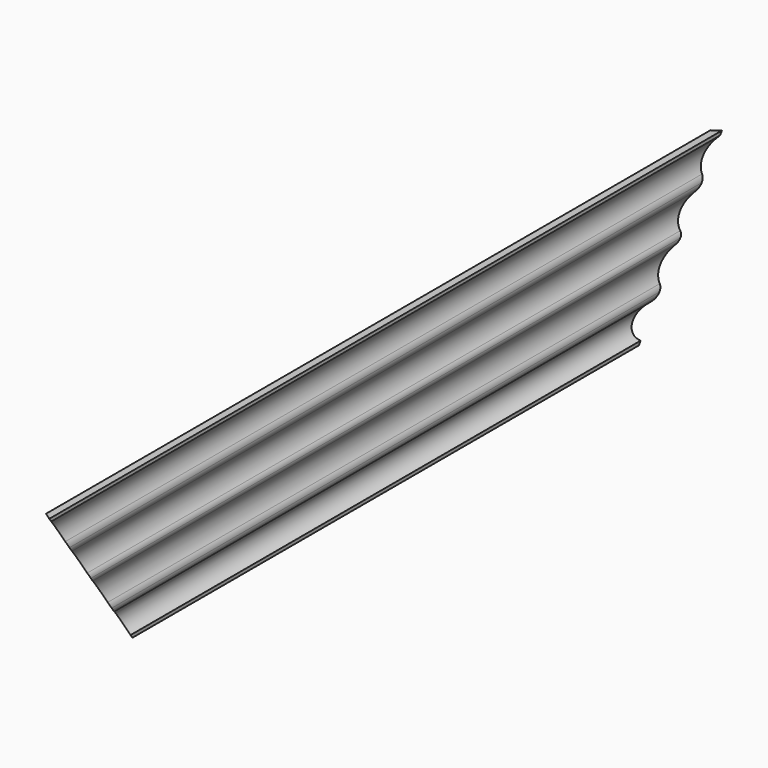
from build123d import *

# Parameters (mm, degrees)
F0_W     = 25.4
F0_H     = 127
F1_DEPTH = 381
F2_SIZE  = 19.05
F4_DEPTH = 762.001
F6_DEPTH = 94.2936892712


with BuildPart() as f1:
    # F0 (on Front) → F1 (new body, symmetric)
    with BuildSketch(Plane.XZ):
        Rectangle(F0_W, F0_H)
    extrude(amount=F1_DEPTH, both=True)

    # F2
    f2_edges = [f1.edges().sort_by_distance(p)[0] for p in [
        (-12.7, 0, 63.5),
        (-12.7, 0, -63.5),
    ]]
    chamfer(f2_edges, length=F2_SIZE)

    # F3 (on face) → F4 (cut, through all)
    with BuildSketch(Plane.XZ.offset(381)):
        with BuildLine():
            ThreePointArc((11.0607444282, 37.7743444236), (12.2799882072, 35.3703719511), (12.7, 32.7078113162))
            Line((12.7, 32.7078113162), (12.7, 60.5742454254))
            ThreePointArc((12.7, 60.5742454254), (7.734521827, 49.4723711463), (11.0607444282, 37.7743444236))
        make_face()
        with BuildLine():
            ThreePointArc((12.7, 32.7078113162), (12.2050831664, 29.8239852054), (10.7769712009, 27.270185698))
            ThreePointArc((10.7769712009, 27.270185698), (6.7846666798, 15.7099875002), (11.1173224388, 4.2729961198))
            ThreePointArc((11.1173224388, 4.2729961198), (12.2916182124, 2.2783417271), (12.7, 0))
            Line((12.7, 0), (12.7, 32.7078113162))
        make_face()
        with BuildLine():
            Line((12.7, -31.8533331156), (12.7, 0))
            ThreePointArc((12.7, 0), (12.3437587955, -2.132292065), (11.3137291276, -4.0329803954))
            ThreePointArc((11.3137291276, -4.0329803954), (7.3105875393, -15.5042613468), (11.0984736295, -27.0484091373))
            ThreePointArc((11.0984736295, -27.0484091373), (12.2890761787, -29.3209339985), (12.7, -31.8533331156))
        make_face()
        with BuildLine():
            Line((12.7, -60.6248162719), (12.7, -31.8533331156))
            ThreePointArc((12.7, -31.8533331156), (11.8279315788, -35.4875740202), (9.4016464054, -38.3303456503))
            ThreePointArc((9.4016464054, -38.3303456503), (4.3012002964, -50.4761533584), (12.7, -60.6248162719))
        make_face()
    extrude(amount=-F4_DEPTH, mode=Mode.SUBTRACT)

    # F5 (on face) → F6 (cut, through all)
    with BuildSketch(Plane(origin=(-28.575, 0, 28.575), x_dir=(0, -1, 0), z_dir=(-0.7071067812, 0, 0.7071067812))):
        Polygon((381, 22.4506403027), (314.1107035763, 22.4506403027), (238.774623845, -52.8854394286), (381, -52.8854394286), align=None)
        Polygon((381, 49.3914086659), (341.0514719395, 49.3914086659), (314.1107035763, 22.4506403027), (381, 22.4506403027), align=None)
        Polygon((381, 53.8815367264), (345.5416, 53.8815367264), (341.0514719395, 49.3914086659), (381, 49.3914086659), align=None)
        Polygon((-349.5691035763, 22.4506403027), (-381, 22.4506403027), (-381, -78.4676751543), (-248.6507881192, -78.4676751543), align=None)
        Polygon((-376.5098719395, 49.3914086659), (-381, 49.3914086659), (-381, 22.4506403027), (-349.5691035763, 22.4506403027), align=None)
        Polygon((-376.5098719395, 49.3914086659), (-381, 53.8815367264), (-381, 49.3914086659), align=None)
    extrude(amount=-F6_DEPTH, mode=Mode.SUBTRACT)


solid = f1.part
